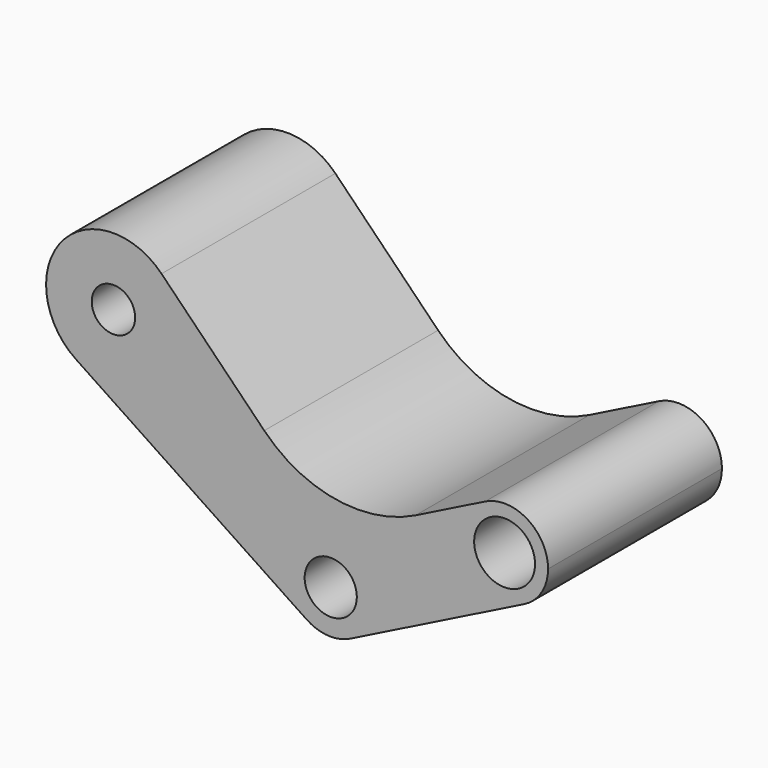
from build123d import *

# Parameters (mm, degrees)
F0_R     = 5
F0_R_2   = 6
F0_R_3   = 7
F1_DEPTH = 25


with BuildPart() as f1:
    # F0 (on Front) → F1 (new body, symmetric)
    with BuildSketch(Plane.XZ):
        with BuildLine():
            ThreePointArc((-38.937303, 50.856645), (-61.936842, 49.887456), (-58.607353, 27.109559))
            ThreePointArc((-58.607353, 27.109559), (-42.691237, 26.33135), (-34.5, 40))
            ThreePointArc((-34.5, 40), (-35.652147, 45.864222), (-38.937303, 50.856645))
        make_face()
        with Locations((-50, 40)):
            Circle(F0_R, mode=Mode.SUBTRACT)
        with BuildLine():
            ThreePointArc((-5.553131, -8.316414), (-4.715331, 8.818484), (10, 0))
            ThreePointArc((10, 0), (8.506508, -5.257311), (4.472136, -8.944272))
            Line((4.472136, -8.944272), (44.472136, 11.055728))
            ThreePointArc((44.472136, 11.055728), (31.055728, 15.527864), (35.527864, 28.944272))
            Line((35.527864, 28.944272), (19.532285, 20.946482))
            ThreePointArc((19.532285, 20.946482), (1.171282, 18.189588), (-15.295793, 26.766436))
            Line((-15.295793, 26.766436), (-38.937303, 50.856645))
            ThreePointArc((-38.937303, 50.856645), (-35.652147, 45.864222), (-34.5, 40))
            ThreePointArc((-34.5, 40), (-42.691237, 26.33135), (-58.607353, 27.109559))
            Line((-58.607353, 27.109559), (-5.553131, -8.316414))
        make_face()
        with BuildLine():
            ThreePointArc((4.472136, -8.944272), (8.506508, -5.257311), (10, 0))
            ThreePointArc((10, 0), (-4.715331, 8.818484), (-5.553131, -8.316414))
            ThreePointArc((-5.553131, -8.316414), (-0.625051, -9.980446), (4.472136, -8.944272))
        make_face()
        Circle(F0_R_2, mode=Mode.SUBTRACT)
        with BuildLine():
            ThreePointArc((35.527864, 28.944272), (31.055728, 15.527864), (44.472136, 11.055728))
            ThreePointArc((44.472136, 11.055728), (48.506508, 14.742689), (50, 20))
            ThreePointArc((50, 20), (45.257311, 28.506508), (35.527864, 28.944272))
        make_face()
        with Locations((40, 20)):
            Circle(F0_R_3, mode=Mode.SUBTRACT)
    extrude(amount=F1_DEPTH, both=True)


solid = f1.part
